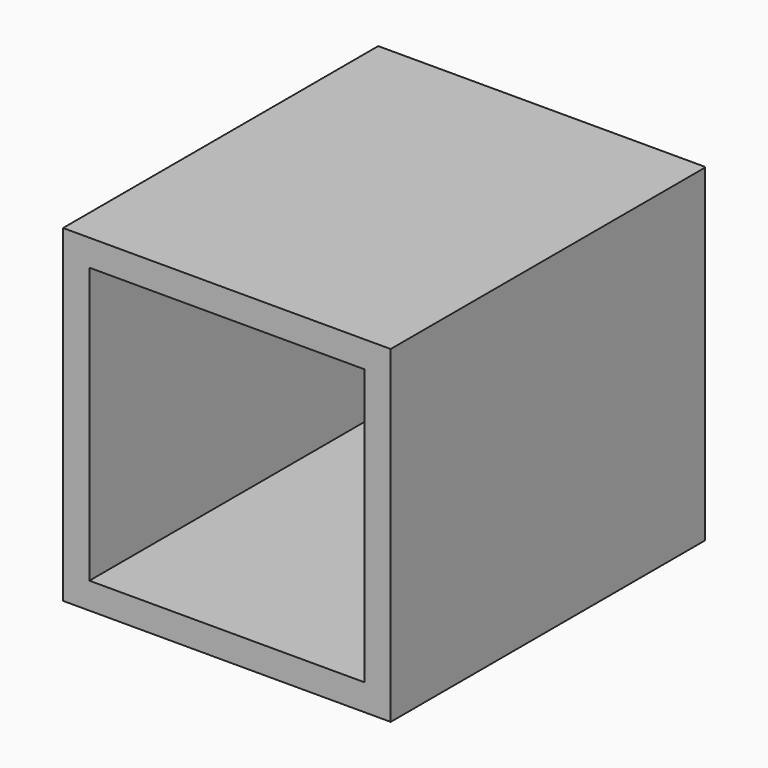
from build123d import *

# Parameters (mm, degrees)
F0_W     = 29.938724
F0_H     = 30
F1_DEPTH = 36
F2_T     = -2.41
F3_SIZE  = 0.1


with BuildPart() as f1:
    # F0 (on Front) → F1 (new body)
    with BuildSketch(Plane.XZ):
        with Locations((14.969362, 15)):
            Rectangle(F0_W, F0_H)
    extrude(amount=F1_DEPTH)

    # F2
    f2_openings = [f1.faces().sort_by_distance(p)[0] for p in [
        (14.969362, -36, 15),
    ]]
    offset(amount=F2_T, openings=f2_openings)

    # F3
    f3_edges = [f1.edges().sort_by_distance(p)[0] for p in [
        (29.938724, 0, 15),
    ]]
    chamfer(f3_edges, length=F3_SIZE)


solid = f1.part
